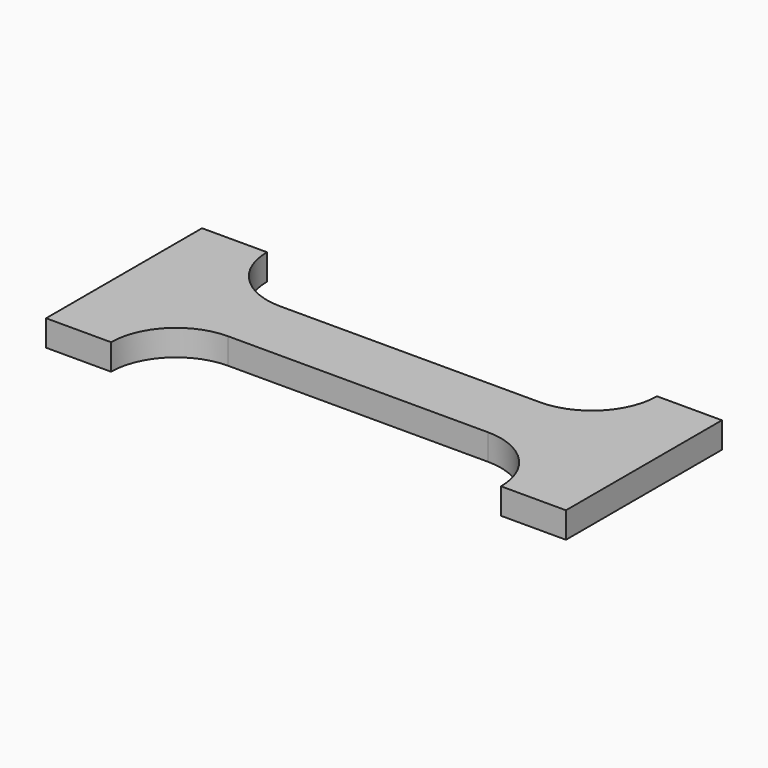
from build123d import *

# Parameters (mm, degrees)
F1_DEPTH = 1


with BuildPart() as f1:
    # F0 (on Top) → F1 (new body)
    with BuildSketch(Plane.XY):
        with BuildLine():
            Line((0, -1.25), (0, 1.25))
            Line((0, 1.25), (-5, 1.25))
            ThreePointArc((-5, 1.25), (-6.767767, 1.982233), (-7.5, 3.75))
            Line((-7.5, 3.75), (-10, 3.75))
            Line((-10, 3.75), (-10, -3.75))
            Line((-10, -3.75), (-7.5, -3.75))
            ThreePointArc((-7.5, -3.75), (-6.767767, -1.982233), (-5, -1.25))
            Line((-5, -1.25), (0, -1.25))
        make_face()
        with BuildLine():
            ThreePointArc((7.5, 3.75), (6.767767, 1.982233), (5, 1.25))
            Line((5, 1.25), (0, 1.25))
            Line((0, 1.25), (0, -1.25))
            Line((0, -1.25), (5, -1.25))
            ThreePointArc((5, -1.25), (6.767767, -1.982233), (7.5, -3.75))
            Line((7.5, -3.75), (10, -3.75))
            Line((10, -3.75), (10, 3.75))
            Line((10, 3.75), (7.5, 3.75))
        make_face()
    extrude(amount=F1_DEPTH)


solid = f1.part
